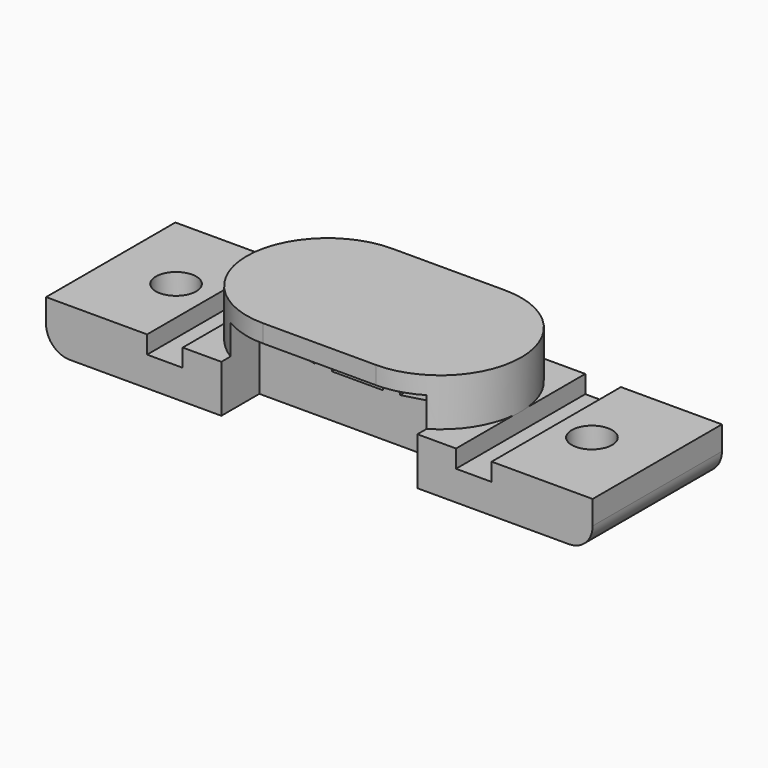
from build123d import *

# Parameters (mm, degrees)
SKETCH_W        = 46
SKETCH_H        = 13.6
SKETCH_R        = 1.7
PAD_DEPTH       = 4
PAD001_DEPTH    = 4
SKETCH002_W     = 4.3
SKETCH002_H     = 1.7
POCKET_DEPTH    = 10
SKETCH003_W     = 16.5
SKETCH003_H     = 7.2
POCKET001_DEPTH = 4
SKETCH004_W     = 3
SKETCH004_H     = 1.5
POCKET002_DEPTH = 110.862709
FILLET_R        = 2
FILLET001_R     = 2
CHAMFER_SIZE    = 1.5
CHAMFER001_SIZE = 1.5


with BuildPart() as part:
    # Sketch → Pad (new body)
    with BuildSketch(Plane.XY):
        Rectangle(SKETCH_W, SKETCH_H)
        with Locations((-17.5, 0)):
            Circle(SKETCH_R, mode=Mode.SUBTRACT)
        with Locations((17.5, 0)):
            Circle(SKETCH_R, mode=Mode.SUBTRACT)
    extrude(amount=-PAD_DEPTH)

    # Sketch001 → Pad001 (new body)
    with BuildSketch(Plane.XY):
        with BuildLine():
            ThreePointArc((-4.75, 6.8), (-11.55, 0), (-4.75, -6.8))
            Line((-4.75, -6.8), (4.75, -6.8))
            ThreePointArc((4.75, -6.8), (11.55, 0), (4.75, 6.8))
            Line((-4.75, 6.8), (4.75, 6.8))
        make_face()
    extrude(amount=PAD001_DEPTH)

    # Sketch002 → Pocket (cut)
    with BuildSketch(Plane.XZ.offset(6.8)):
        Polygon((-7.588114, 2.079739), (-3.336138, 1.438879), (-3.589501, -0.242134), (-7.841477, 0.398725), align=None)
        with Locations((0, 0.5)):
            Rectangle(SKETCH002_W, SKETCH002_H)
        Polygon((3.336139, 1.438884), (7.588117, 2.079734), (7.841476, 0.39872), (3.589499, -0.24213), align=None)
    extrude(amount=-POCKET_DEPTH, mode=Mode.SUBTRACT)

    # Sketch003 → Pocket001 (cut)
    with BuildSketch(Plane.XZ.offset(6.8)):
        with Locations((0, -1.1)):
            Rectangle(SKETCH003_W, SKETCH003_H)
    extrude(amount=-POCKET001_DEPTH, mode=Mode.SUBTRACT)

    # Sketch004 → Pocket002 (cut, through all)
    with BuildSketch(Plane.XZ.offset(6.8)):
        with Locations((-13, -0.75)):
            Rectangle(SKETCH004_W, SKETCH004_H)
    pocket002 = extrude(amount=-POCKET002_DEPTH, mode=Mode.SUBTRACT)

    # Mirrored: Pocket002 across Sketch004 V_Axis
    add(pocket002.mirror(Plane(origin=(0, -6.8, 0), x_dir=(0, -1, 0), z_dir=(1, 0, 0))), mode=Mode.SUBTRACT)

    # Fillet
    fillet_edges = [part.edges().sort_by_distance(p)[0] for p in [
        (-23, 0, -4),
    ]]
    fillet(fillet_edges, radius=FILLET_R)

    # Fillet001
    fillet001_edges = [part.edges().sort_by_distance(p)[0] for p in [
        (23, 0, -4),
    ]]
    fillet(fillet001_edges, radius=FILLET001_R)

    # Chamfer
    chamfer_edges = [part.edges().sort_by_distance(p)[0] for p in [
        (-19.2, 0, -4),
    ]]
    chamfer(chamfer_edges, length=CHAMFER_SIZE)

    # Chamfer001
    chamfer001_edges = [part.edges().sort_by_distance(p)[0] for p in [
        (15.8, 0, -4),
    ]]
    chamfer(chamfer001_edges, length=CHAMFER001_SIZE)


solid = part.part
